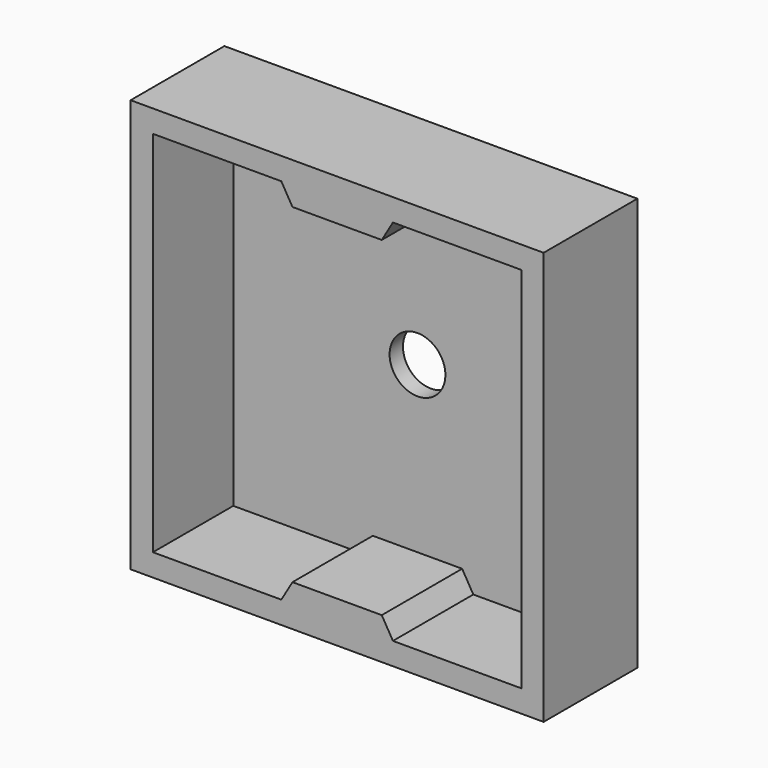
from build123d import *

# Parameters (mm, degrees)
F0_W     = 37
F0_H     = 37
F0_W_2   = 33
F0_H_2   = 33
F1_DEPTH = 9
F2_W     = 37
F2_H     = 37
F3_DEPTH = 1.5
F5_DEPTH = 9
F7_D     = 5


with BuildPart() as f1:
    # F0 (on Front) → F1 (new body)
    with BuildSketch(Plane.XZ):
        with Locations((18.5, 18.5)):
            Rectangle(F0_W, F0_H)
        with Locations((18.5, 18.5)):
            Rectangle(F0_W_2, F0_H_2, mode=Mode.SUBTRACT)
    extrude(amount=F1_DEPTH)

    # F2 (on face) → F3 (join)
    with BuildSketch(Plane(origin=(0, 0, 0), x_dir=(-1, 0, 0), z_dir=(0, 1, 0))):
        with Locations((-18.5, 18.5)):
            Rectangle(F2_W, F2_H)
    extrude(amount=F3_DEPTH)

    # F4 (on face) → F5 (join, through all)
    with BuildSketch(Plane.XZ.offset(9)):
        Polygon((23.5, 35), (13.5, 35), (14.5, 33.294015), (22.5, 33.294015), align=None)
        Polygon((14.5, 3.705985), (13.5, 2), (23.5, 2), (22.5, 3.705985), align=None)
    extrude(amount=-F5_DEPTH)

    # F7 (through all)
    with Locations(Plane.XZ):
        with Locations((18.5, 18.5)):
            Hole(F7_D / 2)


solid = f1.part
